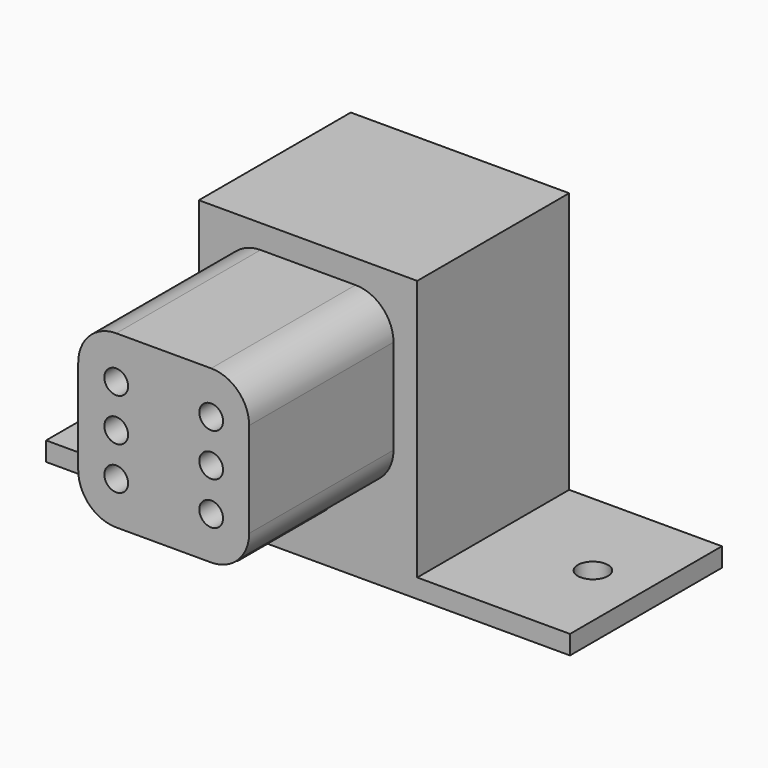
from build123d import *

# Parameters (mm, degrees)
F0_R      = 1.25
F1_DEPTH  = 19
F3_DEPTH  = 11.5
F4_R      = 1.25
F4_R_2    = 0.75
F5_DEPTH  = 10
F6_W      = 23
F6_H      = 29.5
F6_R      = 1.5
F7_DEPTH  = 20
F8_W      = 16.0875
F8_H      = 20
F8_R      = 1.5875
F9_DEPTH  = 2
F10_W     = 17
F10_H     = 16
F11_DEPTH = 10


with BuildPart() as f1:
    # F0 (on Front) → F1 (new body)
    with BuildSketch(Plane.XZ):
        with BuildLine():
            Line((17.5, 30.5), (7.5, 30.5))
            ThreePointArc((7.5, 30.5), (4.671573, 29.328427), (3.5, 26.5))
            Line((3.5, 26.5), (3.5, 16.5))
            ThreePointArc((3.5, 16.5), (4.671573, 13.671573), (7.5, 12.5))
            Line((7.5, 12.5), (17.5, 12.5))
            ThreePointArc((17.5, 12.5), (20.328427, 13.671573), (21.5, 16.5))
            Line((21.5, 16.5), (21.5, 26.5))
            ThreePointArc((21.5, 26.5), (20.328427, 29.328427), (17.5, 30.5))
        make_face()
        with Locations((7.5, 17)):
            Circle(F0_R, mode=Mode.SUBTRACT)
        with Locations((17.5, 17)):
            Circle(F0_R, mode=Mode.SUBTRACT)
        with Locations((7.5, 21.5)):
            Circle(F0_R, mode=Mode.SUBTRACT)
        with Locations((7.5, 26)):
            Circle(F0_R, mode=Mode.SUBTRACT)
        with Locations((17.5, 21.5)):
            Circle(F0_R, mode=Mode.SUBTRACT)
        with Locations((17.5, 26)):
            Circle(F0_R, mode=Mode.SUBTRACT)
    extrude(amount=F1_DEPTH)

    # F2 (on face) → F3 (join)
    with BuildSketch(Plane(origin=(0, 0, 0), x_dir=(-1, 0, 0), z_dir=(0, 1, 0))):
        with BuildLine():
            Line((-10, 12.5), (-15, 12.5))
            Line((-15, 12.5), (-14.554748, 8.937983))
            ThreePointArc((-14.554748, 8.937983), (-14.38951, 8.625161), (-14.058609, 8.5))
            Line((-14.058609, 8.5), (-10.941391, 8.5))
            ThreePointArc((-10.941391, 8.5), (-10.61049, 8.625161), (-10.445252, 8.937983))
            Line((-10.445252, 8.937983), (-10, 12.5))
        make_face()
    extrude(amount=-F3_DEPTH)

    # F4 (on face) → F5 (join)
    with BuildSketch(Plane(origin=(0, 0, 0), x_dir=(-1, 0, 0), z_dir=(0, 1, 0))):
        with Locations((-17.5, 26)):
            Circle(F4_R)
        with Locations((-17.5, 26)):
            Circle(F4_R_2, mode=Mode.SUBTRACT)
        with Locations((-7.5, 26)):
            Circle(F4_R)
        with Locations((-7.5, 26)):
            Circle(F4_R_2, mode=Mode.SUBTRACT)
        with Locations((-7.5, 21.5)):
            Circle(F4_R)
        with Locations((-7.5, 21.5)):
            Circle(F4_R_2, mode=Mode.SUBTRACT)
        with Locations((-7.5, 17)):
            Circle(F4_R)
        with Locations((-7.5, 17)):
            Circle(F4_R_2, mode=Mode.SUBTRACT)
        with Locations((-17.5, 17)):
            Circle(F4_R)
        with Locations((-17.5, 17)):
            Circle(F4_R_2, mode=Mode.SUBTRACT)
        with Locations((-17.5, 21.5)):
            Circle(F4_R)
        with Locations((-17.5, 21.5)):
            Circle(F4_R_2, mode=Mode.SUBTRACT)
    extrude(amount=-F5_DEPTH)


with BuildPart() as f7:
    # F6 (on face) → F7 (new body)
    with BuildSketch(Plane(origin=(0, 0, 0), x_dir=(-1, 0, 0), z_dir=(0, 1, 0))):
        with Locations((-12.5, 18.25)):
            Rectangle(F6_W, F6_H)
        with Locations((-17.5, 17)):
            Circle(F6_R, mode=Mode.SUBTRACT)
        with Locations((-7.5, 17)):
            Circle(F6_R, mode=Mode.SUBTRACT)
        with Locations((-17.5, 21.5)):
            Circle(F6_R, mode=Mode.SUBTRACT)
        with Locations((-17.5, 26)):
            Circle(F6_R, mode=Mode.SUBTRACT)
        with Locations((-7.5, 21.5)):
            Circle(F6_R, mode=Mode.SUBTRACT)
        with Locations((-7.5, 26)):
            Circle(F6_R, mode=Mode.SUBTRACT)
    extrude(amount=F7_DEPTH)

    # F8 (on face) → F9 (join)
    with BuildSketch(Plane(origin=(0, 0, 3.5), x_dir=(1, 0, 0), z_dir=(0, 0, -1))):
        with Locations((32.04375, -10)):
            Rectangle(F8_W, F8_H)
        with Locations((34.5, -10)):
            Circle(F8_R, mode=Mode.SUBTRACT)
        with Locations((-7.04375, -10)):
            Rectangle(F8_W, F8_H)
        with Locations((-9.5, -10)):
            Circle(F8_R, mode=Mode.SUBTRACT)
    extrude(amount=-F9_DEPTH)

    # F10 (on face) → F11 (cut)
    with BuildSketch(Plane(origin=(0, 20, 0), x_dir=(-1, 0, 0), z_dir=(0, 1, 0))):
        with Locations((-12.5, 21.5)):
            Rectangle(F10_W, F10_H)
    extrude(amount=-F11_DEPTH, mode=Mode.SUBTRACT)


solid = Compound([f1.part, f7.part])
